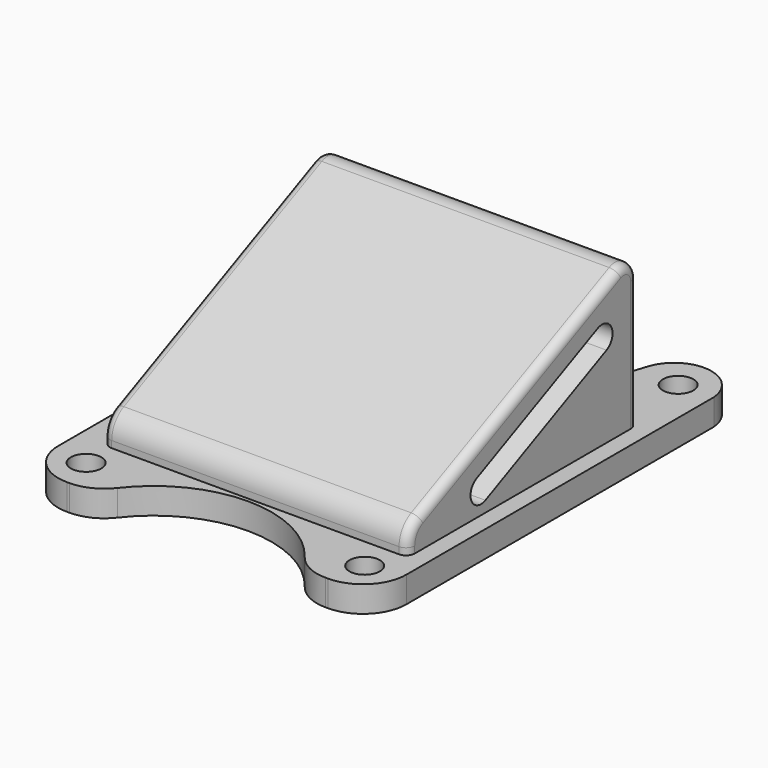
from build123d import *

# Parameters (mm, degrees)
F0_R     = 1.75
F1_DEPTH = 3
F3_DEPTH = 17.5
F4_R     = 1


with BuildPart() as f1:
    # F0 (on Top) → F1 (new body)
    with BuildSketch(Plane.XY):
        with BuildLine():
            ThreePointArc((-20.5195807586, -22.8886182085), (-19.0551146645, -26.4241521144), (-15.5195807586, -27.8886182085))
            Line((-15.5195807586, -27.8886182085), (-15.2333166803, -27.8886182085))
            ThreePointArc((-15.2333166803, -27.8886182085), (-13.0234939097, -27.3737807832), (-11.2687509252, -25.9352915373))
            ThreePointArc((-11.2687509252, -25.9352915373), (-0.5195807586, -20.639215731), (10.229589408, -25.9352915373))
            ThreePointArc((10.229589408, -25.9352915373), (11.9843323925, -27.3737807832), (14.1941551632, -27.8886182085))
            Line((14.1941551632, -27.8886182085), (14.4804192414, -27.8886182085))
            ThreePointArc((14.4804192414, -27.8886182085), (18.0159531473, -26.4241521144), (19.4804192414, -22.8886182085))
            Line((19.4804192414, -22.8886182085), (19.4804192414, 21.2272368371))
            ThreePointArc((19.4804192414, 21.2272368371), (15.7137853447, 25.1397413301), (11.1289973993, 22.2285659978))
            ThreePointArc((11.1289973993, 22.2285659978), (-0.5195807586, 13.1113817915), (-12.1681589164, 22.2285659978))
            ThreePointArc((-12.1681589164, 22.2285659978), (-16.7529468618, 25.1397413301), (-20.5195807586, 21.2272368371))
            Line((-20.5195807586, 21.2272368371), (-20.5195807586, -22.8886182085))
        make_face()
        with Locations((-16.5195807586, -23.8886182085)):
            Circle(F0_R, mode=Mode.SUBTRACT)
        with Locations((15.4804192414, -23.8886182085)):
            Circle(F0_R, mode=Mode.SUBTRACT)
        with Locations((-16.5195807586, 21.1113817915)):
            Circle(F0_R, mode=Mode.SUBTRACT)
        with Locations((15.4804192414, 21.1113817915)):
            Circle(F0_R, mode=Mode.SUBTRACT)
    extrude(amount=F1_DEPTH)

    # F2 (on Right) → F3 (join, symmetric)
    with BuildSketch(Plane.YZ):
        with BuildLine():
            Line((-20.2289633453, 3.7764561929), (-20.2289633453, 2.6880949736))
            Line((-20.2289633453, 2.6880949736), (12.7710366547, 2.6880949736))
            Line((12.7710366547, 2.6880949736), (12.7710366547, 17.9294266955))
            ThreePointArc((12.7710366547, 17.9294266955), (11.845807029, 19.6161005355), (9.9261680122, 19.7422137699))
            Line((9.9261680122, 19.7422137699), (-18.4962663091, 6.4956368044))
            ThreePointArc((-18.4962663091, 6.4956368044), (-19.7589741053, 5.3886117543), (-20.2289633453, 3.7764561929))
        make_face()
        with BuildLine():
            Line((-10.3537236473, 6.9807345733), (7.0411683064, 15.0878084597))
            ThreePointArc((7.0411683064, 15.0878084597), (9.0344100941, 14.3618696358), (8.3084712702, 12.3686278481))
            Line((8.3084712702, 12.3686278481), (-9.0864206835, 4.2615539618))
            ThreePointArc((-9.0864206835, 4.2615539618), (-11.0796624712, 4.9874927857), (-10.3537236473, 6.9807345733))
        make_face(mode=Mode.SUBTRACT)
    extrude(amount=F3_DEPTH, both=True)

    # F4
    f4_edges = [f1.edges().sort_by_distance(p)[0] for p in [
        (17.5, -4.285049, 13.118925),
        (-17.5, -4.285049, 13.118925),
    ]]
    fillet(f4_edges, radius=F4_R)


solid = f1.part
